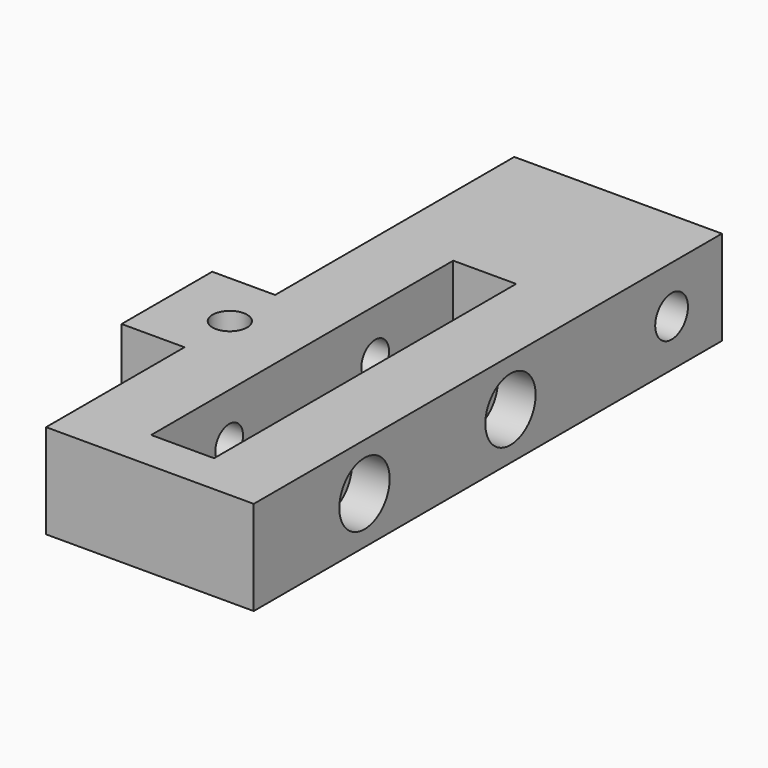
from build123d import *

# Parameters (mm, degrees)
PAD_DEPTH          = 15
SKETCH001_R        = 3.25
POCKET_DEPTH       = 40
SKETCH002_R        = 2.75
POCKET001_DEPTH    = 20
POCKET001_FACE10_W = 53
POCKET001_FACE10_H = 15
PAD001_DEPTH       = 10
SKETCH003_W        = 10
SKETCH003_H        = 60
POCKET002_DEPTH    = 20
POCKET002_FACE11_W = 45.5
POCKET002_FACE11_H = 15
POCKET003_DEPTH    = 10
SKETCH004_R        = 2.25
POCKET004_DEPTH    = 100
SKETCH005_R        = 2.75
POCKET005_DEPTH    = 15
SKETCH006_W        = 27.5
SKETCH006_H        = 15
POCKET006_DEPTH    = 10
SKETCH007_R        = 2.75
POCKET007_DEPTH    = 15
SKETCH009_R        = 5
POCKET008_DEPTH    = 6


with BuildPart() as part:
    # Sketch → Pad (new body)
    with BuildSketch(Plane.XY):
        Polygon((-16.5, 56.5), (-16.5, 9), (-26.5, 9), (-26.5, -26.5), (26.5, -26.5), (26.5, 9), (16.5, 9), (16.5, 56.5), align=None)
    extrude(amount=PAD_DEPTH)

    # Sketch001 (on Face7 of Pad) → Pocket (cut)
    with BuildSketch(Plane.YZ.offset(16.5)):
        with Locations((46.5, 7.5)):
            Circle(SKETCH001_R)
    extrude(amount=-POCKET_DEPTH, mode=Mode.SUBTRACT)

    # Sketch002 (on Face4 of Pocket) → Pocket001 (cut)
    with BuildSketch(Plane.XY.offset(15)):
        with Locations((-16.5, 0)):
            Circle(SKETCH002_R)
    extrude(amount=-POCKET001_DEPTH, mode=Mode.SUBTRACT)

    # Pocket001 Face10 → Pad001 (add)
    with BuildSketch(Plane(origin=(0, -26.5, 7.5), x_dir=(-1, 0, 0), z_dir=(0, -1, 0))):
        Rectangle(POCKET001_FACE10_W, POCKET001_FACE10_H)
    extrude(amount=PAD001_DEPTH)

    # Sketch003 (on Face10 of Pad001) → Pocket002 (cut)
    with BuildSketch(Plane.XY.offset(15)):
        Rectangle(SKETCH003_W, SKETCH003_H)
    extrude(amount=-POCKET002_DEPTH, mode=Mode.SUBTRACT)

    # Pocket002 Face11 → Pocket003 (cut)
    with BuildSketch(Plane(origin=(26.5, -13.75, 7.5), x_dir=(0, -1, 0), z_dir=(1, 0, 0))):
        Rectangle(POCKET002_FACE11_W, POCKET002_FACE11_H)
    extrude(amount=-POCKET003_DEPTH, mode=Mode.SUBTRACT)

    # Sketch004 (on Face14 of Pocket003) → Pocket004 (cut)
    with BuildSketch(Plane.YZ.offset(16.5)):
        with Locations((-14.5, 7.5)):
            Circle(SKETCH004_R)
        with Locations((14.5, 7.5)):
            Circle(SKETCH004_R)
    extrude(amount=-POCKET004_DEPTH, mode=Mode.SUBTRACT)

    # Sketch005 (on Face1 of Pocket004) → Pocket005 (cut)
    with BuildSketch(Plane(origin=(-16.5, 0, 0), x_dir=(0, -1, 0), z_dir=(-1, 0, 0))):
        with Locations((-14.5, 7.5)):
            Circle(SKETCH005_R)
    extrude(amount=-POCKET005_DEPTH, mode=Mode.SUBTRACT)

    # Sketch006 (on Face9 of Pocket005) → Pocket006 (cut)
    with BuildSketch(Plane(origin=(-26.5, 0, 0), x_dir=(0, -1, 0), z_dir=(-1, 0, 0))):
        with Locations((22.75, 7.5)):
            Rectangle(SKETCH006_W, SKETCH006_H)
    extrude(amount=-POCKET006_DEPTH, mode=Mode.SUBTRACT)

    # Sketch007 (on Face11 of Pocket006) → Pocket007 (cut)
    with BuildSketch(Plane(origin=(-16.5, 0, 0), x_dir=(0, -1, 0), z_dir=(-1, 0, 0))):
        with Locations((14.5, 7.5)):
            Circle(SKETCH007_R)
    extrude(amount=-POCKET007_DEPTH, mode=Mode.SUBTRACT)

    # Sketch009 (on Face8 of Pocket007) → Pocket008 (cut)
    with BuildSketch(Plane.YZ.offset(16.5)):
        with Locations((-14.5, 7.5)):
            Circle(SKETCH009_R)
        with Locations((14.5, 7.5)):
            Circle(SKETCH009_R)
    extrude(amount=-POCKET008_DEPTH, mode=Mode.SUBTRACT)


solid = part.part
